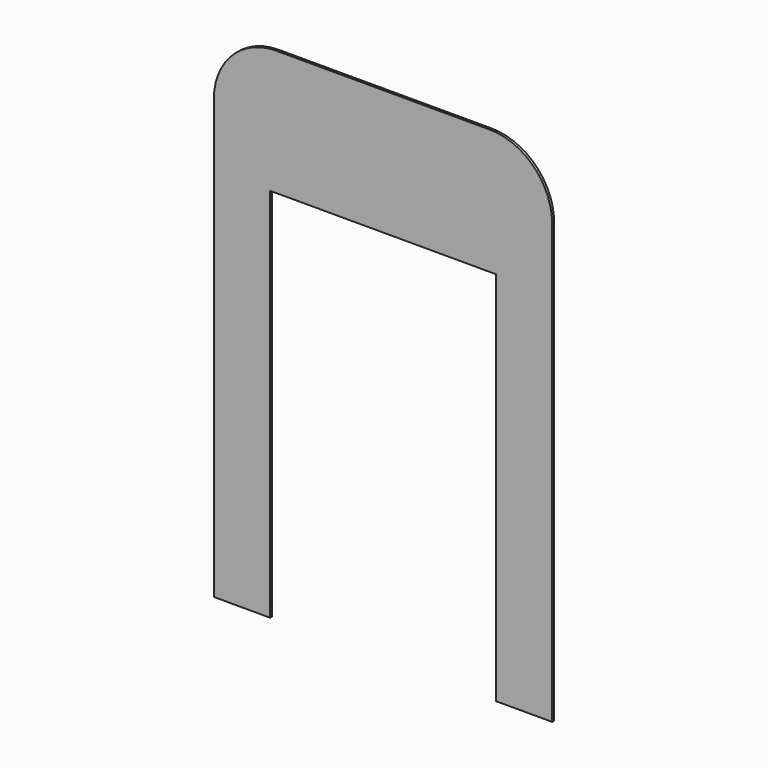
from build123d import *

# Parameters (mm, degrees)
F1_DEPTH = 2


with BuildPart() as f1:
    # F0 (on Front) → F1 (new body)
    with BuildSketch(Plane.XZ):
        with BuildLine():
            Line((85, 0), (0, 0))
            Line((0, 0), (-85, 0))
            ThreePointArc((-85, 0), (-120.355339, -14.644661), (-135, -50))
            Line((-135, -50), (-135, -400))
            Line((-135, -400), (-90, -400))
            Line((-90, -400), (-90, -100))
            Line((-90, -100), (0, -100))
            Line((0, -100), (90, -100))
            Line((90, -100), (90, -400))
            Line((90, -400), (135, -400))
            Line((135, -400), (135, -50))
            ThreePointArc((135, -50), (120.355339, -14.644661), (85, 0))
        make_face()
    extrude(amount=F1_DEPTH)


solid = f1.part
